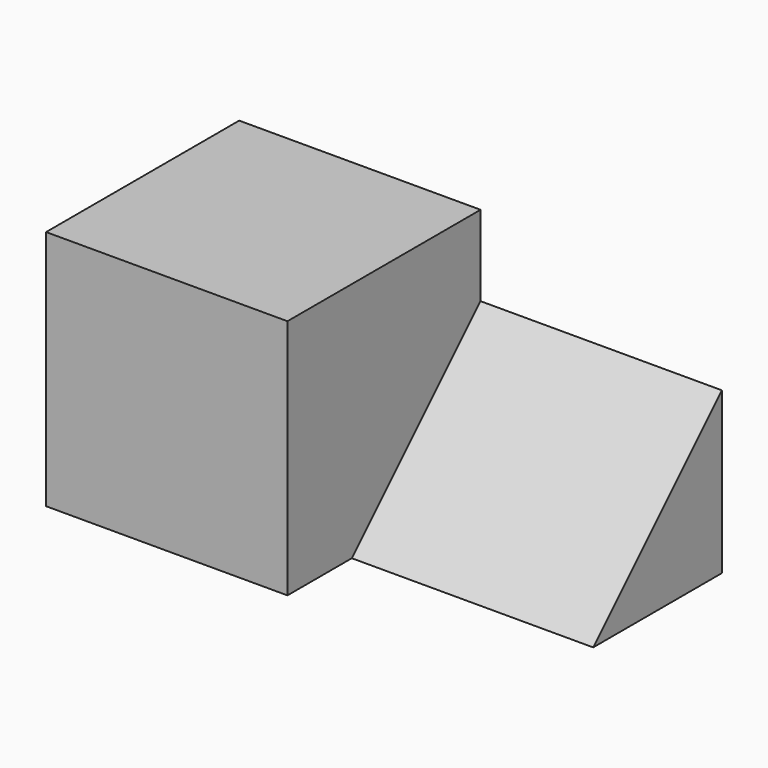
from build123d import *

# Parameters (mm, degrees)
F0_W     = 15
F0_H     = 15
F1_DEPTH = 15
F3_DEPTH = 15


with BuildPart() as f1:
    # F0 (on Top) → F1 (new body)
    with BuildSketch(Plane.XY):
        with Locations((-45.177081, -31.597149)):
            Rectangle(F0_W, F0_H)
    extrude(amount=F1_DEPTH)

    # F2 (on face) → F3 (join)
    with BuildSketch(Plane.YZ.offset(-37.677081)):
        Polygon((-24.097149, 0), (-24.097149, 10), (-34.097149, 0), align=None)
    extrude(amount=F3_DEPTH)


solid = f1.part
